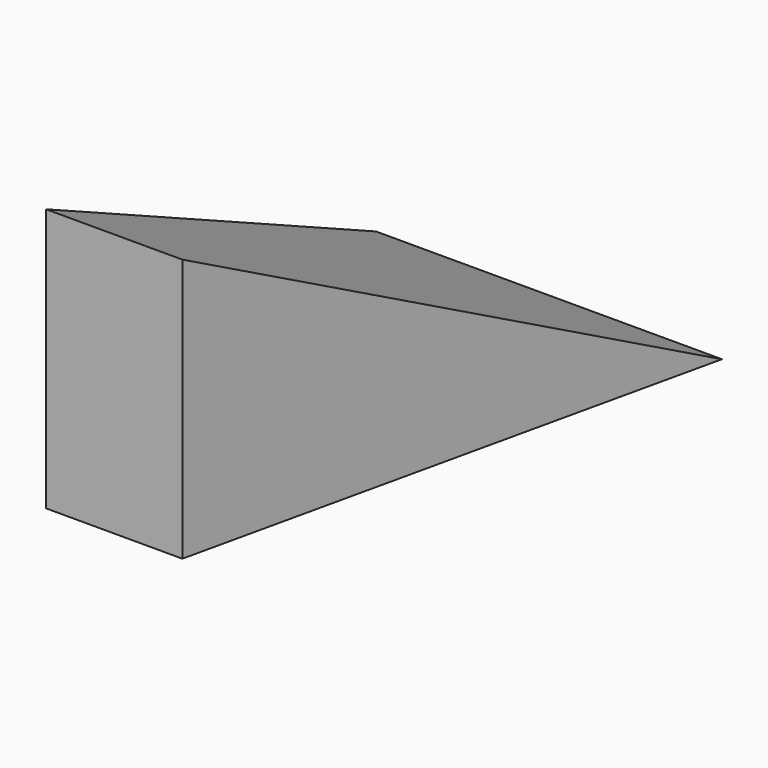
from build123d import *

# Parameters (mm, degrees)
F1_DEPTH = 150
F3_DEPTH = 500


with BuildPart() as f1:
    # F0 (on Top) → F1 (new body)
    with BuildSketch(Plane.XY):
        Polygon((144.991174, 300), (-52.064561, 300), (0, 0), (77.633734, 0), align=None)
    extrude(amount=F1_DEPTH)

    # F2 (on Right) → F3 (cut, symmetric)
    with BuildSketch(Plane.YZ):
        Polygon((0, 150), (300, 0), (300, 150), align=None)
    extrude(amount=F3_DEPTH, both=True, mode=Mode.SUBTRACT)


solid = f1.part
